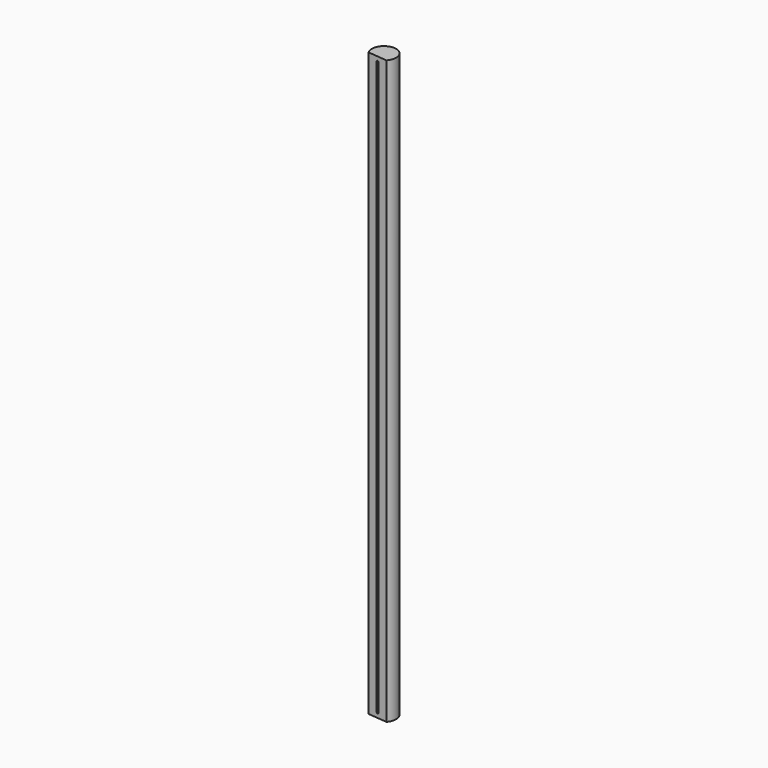
from build123d import *

# Parameters (mm, degrees)
F0_R     = 3.175
F1_DEPTH = 76.2
F3_DEPTH = 152.4
F4_W     = 0.508
F4_H     = 149.86
F5_DEPTH = 25.4


with BuildPart() as f1:
    # F0 (on Top) → F1 (new body, symmetric)
    with BuildSketch(Plane.XY):
        Circle(F0_R)
    extrude(amount=F1_DEPTH, both=True)

    # F2 (on face) → F3 (cut)
    with BuildSketch(Plane.XY.offset(76.2)):
        with BuildLine():
            Line((2.3540518227, -2.1305081591), (-2.7044223431, -1.6633474653))
            ThreePointArc((-2.7044223431, -1.6633474653), (-0.2919754336, -3.1615463536), (2.3540518227, -2.1305081591))
        make_face()
    extrude(amount=-F3_DEPTH, mode=Mode.SUBTRACT)

    # F4 (on face) → F5 (cut)
    with BuildSketch(Plane(origin=(-0.1751852602, -1.8969278122, 0), x_dir=(0.9957626311, -0.0919607665, 0), z_dir=(-0.0919607665, -0.9957626311, 0))):
        Rectangle(F4_W, F4_H)
        with BuildLine():
            Line((0.254, -74.93), (-0.254, -74.93))
            ThreePointArc((-0.254, -74.93), (0, -75.184), (0.254, -74.93))
        make_face()
        with BuildLine():
            ThreePointArc((0.254, 74.93), (0, 75.184), (-0.254, 74.93))
            Line((-0.254, 74.93), (0.254, 74.93))
        make_face()
    extrude(amount=-F5_DEPTH, mode=Mode.SUBTRACT)


solid = f1.part
